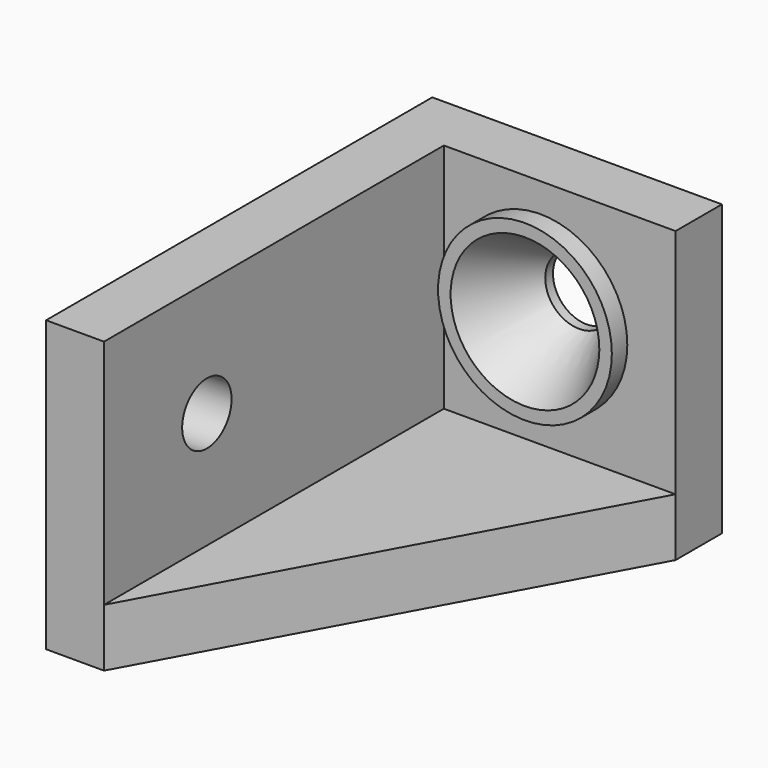
from build123d import *

# Parameters (mm, degrees)
F1_DEPTH = 3
F2_DEPTH = 15
F3_R     = 1.6
F4_DEPTH = 25
F5_R     = 1.75
F6_DEPTH = 25
F5_R_2   = 4.5
F5_R_3   = 3.5
F7_DEPTH = 1
F8_SIZE2 = 2.1
F8_SIZE  = 3.5


with BuildPart() as f1:
    # F0 (on Top) → F1 (new body)
    with BuildSketch(Plane.XY):
        Polygon((-4.5, -12.5), (7.5, 9.5), (-4.5, 9.5), align=None)
    extrude(amount=F1_DEPTH)

    # F0 (on Top) → F2 (join)
    with BuildSketch(Plane.XY):
        Polygon((7.5, 9.5), (7.5, 12.5), (-7.5, 12.5), (-7.5, -12.5), (-4.5, -12.5), (-4.5, 9.5), align=None)
        Polygon((7.5, 9.5), (7.5, 12.5), (-7.5, 12.5), (-7.5, -12.5), (-4.5, -12.5), (-4.5, 9.5), align=None)
        Polygon((7.5, 9.5), (7.5, 12.5), (-7.5, 12.5), (-7.5, -12.5), (-4.5, -12.5), (-4.5, 9.5), align=None)
    extrude(amount=F2_DEPTH)

    # F3 (on face) → F4 (cut)
    with BuildSketch(Plane(origin=(-7.5, 0, 0), x_dir=(0, -1, 0), z_dir=(-1, 0, 0))):
        with Locations((5.8420459367, 9.0217133984)):
            Circle(F3_R)
    extrude(amount=-F4_DEPTH, mode=Mode.SUBTRACT)

    # F5 (on face) → F6 (cut)
    with BuildSketch(Plane.XZ.offset(-9.5)):
        with Locations((0.5, 9)):
            Circle(F5_R)
    extrude(amount=-F6_DEPTH, mode=Mode.SUBTRACT)

    # F5 (on face) → F7 (join)
    with BuildSketch(Plane.XZ.offset(-9.5)):
        with Locations((0.5, 9)):
            Circle(F5_R_2)
        with Locations((0.5, 9)):
            Circle(F5_R_3, mode=Mode.SUBTRACT)
        with Locations((0.5, 9)):
            Circle(F5_R_3)
        with Locations((0.5, 9)):
            Circle(F5_R, mode=Mode.SUBTRACT)
    extrude(amount=F7_DEPTH)

    # F8
    f8_edges = [f1.edges().sort_by_distance(p)[0] for p in [
        (-1.25, 8.5, 9),
    ]]
    f8_side = f1.faces().sort_by_distance((-1.25, 9, 9))[0]
    chamfer(f8_edges, length=F8_SIZE, length2=F8_SIZE2, reference=f8_side)


solid = f1.part
